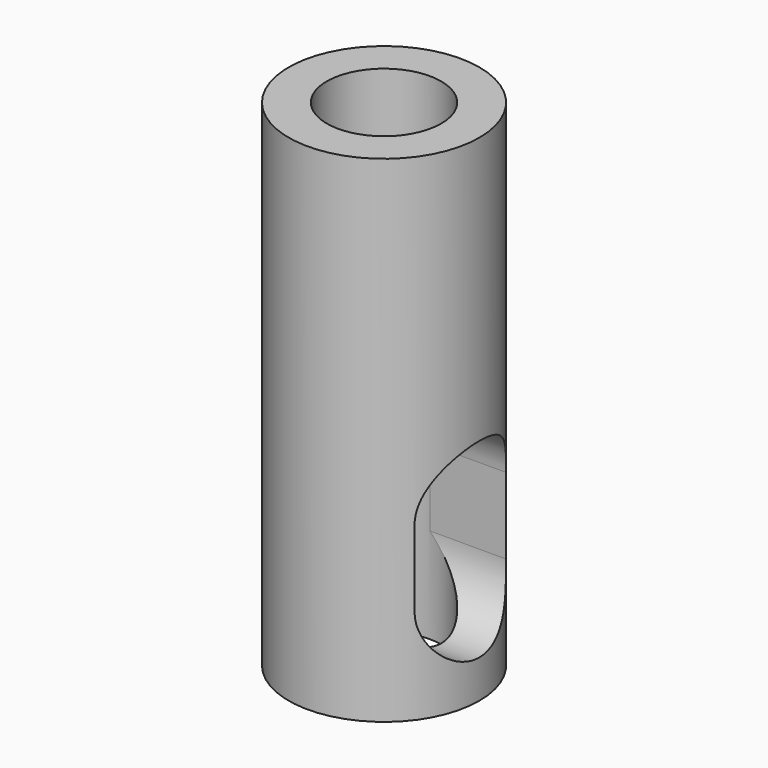
from build123d import *

# Parameters (mm, degrees)
SKETCH_R     = 2.5
SKETCH_R_2   = 1.5
PAD_DEPTH    = 13
POCKET_DEPTH = 2.5


with BuildPart() as part:
    # Sketch → Pad (new body)
    with BuildSketch(Plane.XY):
        Circle(SKETCH_R)
        Circle(SKETCH_R_2, mode=Mode.SUBTRACT)
    extrude(amount=PAD_DEPTH)

    # Sketch001 (on DatumPlane) → Pocket (cut)
    with BuildSketch(Plane.YZ.offset(2.5)):
        with BuildLine():
            ThreePointArc((1.5, 4.5), (0, 6), (-1.5, 4.5))
            Line((-1.5, 4.5), (-1.5, 2.5))
            ThreePointArc((-1.5, 2.5), (0, 1), (1.5, 2.5))
            Line((1.5, 4.5), (1.5, 2.5))
        make_face()
    extrude(amount=-POCKET_DEPTH, mode=Mode.SUBTRACT)


solid = part.part
